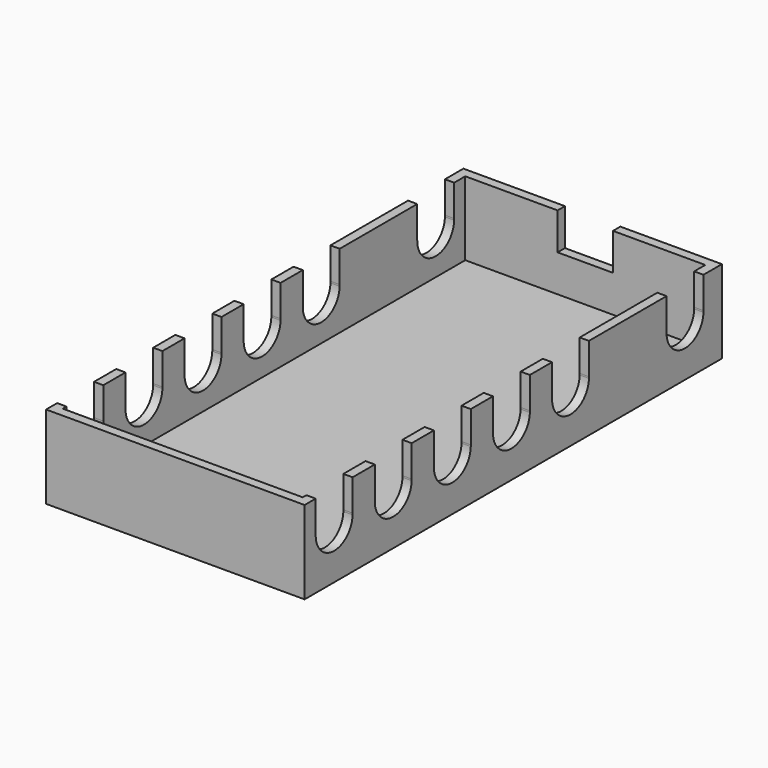
from build123d import *

# Parameters (mm, degrees)
F0_W     = 71.12
F0_H     = 143.51
F1_DEPTH = 22.86
F2_W     = 66.04
F2_H     = 138.43
F3_DEPTH = 20.32
F5_DEPTH = 71.121
F6_W     = 15.24
F6_H     = 20.32
F7_DEPTH = 25.4


with BuildPart() as f1:
    # F0 (on Top) → F1 (new body)
    with BuildSketch(Plane.XY):
        Rectangle(F0_W, F0_H)
    extrude(amount=F1_DEPTH)

    # F2 (on face) → F3 (cut)
    with BuildSketch(Plane.XY.offset(22.86)):
        Rectangle(F2_W, F2_H)
    extrude(amount=-F3_DEPTH, mode=Mode.SUBTRACT)

    # F4 (on face) → F5 (cut, through all)
    with BuildSketch(Plane.YZ.offset(35.56)):
        with BuildLine():
            Line((-67.944304, 22.86), (-67.944304, 14.064014))
            ThreePointArc((-67.944304, 14.064014), (-61.746635, 7.621811), (-55.248448, 13.760757))
            Line((-55.248448, 13.760757), (-55.248448, 14.179243))
            Line((-55.248448, 14.179243), (-55.248448, 22.86))
            Line((-55.248448, 22.86), (-67.944304, 22.86))
        make_face()
        with BuildLine():
            Line((-55.248448, 14.179243), (-55.248448, 13.760757))
            ThreePointArc((-55.248448, 13.760757), (-55.245, 13.97), (-55.248448, 14.179243))
        make_face()
        with BuildLine():
            Line((-34.928448, 14.179243), (-34.928448, 22.86))
            Line((-34.928448, 22.86), (-47.624304, 22.86))
            Line((-47.624304, 22.86), (-47.624304, 14.064014))
            ThreePointArc((-47.624304, 14.064014), (-41.426635, 7.621811), (-34.928448, 13.760757))
            Line((-34.928448, 13.760757), (-34.928448, 14.179243))
        make_face()
        with BuildLine():
            ThreePointArc((-34.928448, 13.760757), (-34.925, 13.97), (-34.928448, 14.179243))
            Line((-34.928448, 14.179243), (-34.928448, 13.760757))
        make_face()
        with BuildLine():
            Line((-14.608448, 14.179243), (-14.608448, 22.86))
            Line((-14.608448, 22.86), (-27.304304, 22.86))
            Line((-27.304304, 22.86), (-27.304304, 14.064014))
            ThreePointArc((-27.304304, 14.064014), (-21.106635, 7.621811), (-14.608448, 13.760757))
            Line((-14.608448, 13.760757), (-14.608448, 14.179243))
        make_face()
        with BuildLine():
            ThreePointArc((-14.608448, 13.760757), (-14.605, 13.97), (-14.608448, 14.179243))
            Line((-14.608448, 14.179243), (-14.608448, 13.760757))
        make_face()
        with BuildLine():
            Line((5.711552, 14.179243), (5.711552, 22.86))
            Line((5.711552, 22.86), (-6.984304, 22.86))
            Line((-6.984304, 22.86), (-6.984304, 14.064014))
            ThreePointArc((-6.984304, 14.064014), (-0.786635, 7.621811), (5.711552, 13.760757))
            Line((5.711552, 13.760757), (5.711552, 14.179243))
        make_face()
        with BuildLine():
            ThreePointArc((5.711552, 13.760757), (5.715, 13.97), (5.711552, 14.179243))
            Line((5.711552, 14.179243), (5.711552, 13.760757))
        make_face()
        with BuildLine():
            Line((26.031552, 14.179243), (26.031552, 22.86))
            Line((26.031552, 22.86), (13.335696, 22.86))
            Line((13.335696, 22.86), (13.335696, 14.064014))
            ThreePointArc((13.335696, 14.064014), (19.533365, 7.621811), (26.031552, 13.760757))
            Line((26.031552, 13.760757), (26.031552, 14.179243))
        make_face()
        with BuildLine():
            ThreePointArc((26.031552, 13.760757), (26.035, 13.97), (26.031552, 14.179243))
            Line((26.031552, 14.179243), (26.031552, 13.760757))
        make_face()
        with BuildLine():
            Line((52.705696, 22.86), (52.705696, 14.064014))
            ThreePointArc((52.705696, 14.064014), (58.903365, 7.621811), (65.401552, 13.760757))
            Line((65.401552, 13.760757), (65.401552, 14.179243))
            Line((65.401552, 14.179243), (65.401552, 22.86))
            Line((65.401552, 22.86), (52.705696, 22.86))
        make_face()
        with BuildLine():
            Line((65.401552, 14.179243), (65.401552, 13.760757))
            ThreePointArc((65.401552, 13.760757), (65.405, 13.97), (65.401552, 14.179243))
        make_face()
    extrude(amount=-F5_DEPTH, mode=Mode.SUBTRACT)

    # F6 (on face) → F7 (cut)
    with BuildSketch(Plane(origin=(0, 71.755, 0), x_dir=(-1, 0, 0), z_dir=(0, 1, 0))):
        with Locations((0, 22.86)):
            Rectangle(F6_W, F6_H)
    extrude(amount=-F7_DEPTH, mode=Mode.SUBTRACT)


solid = f1.part
